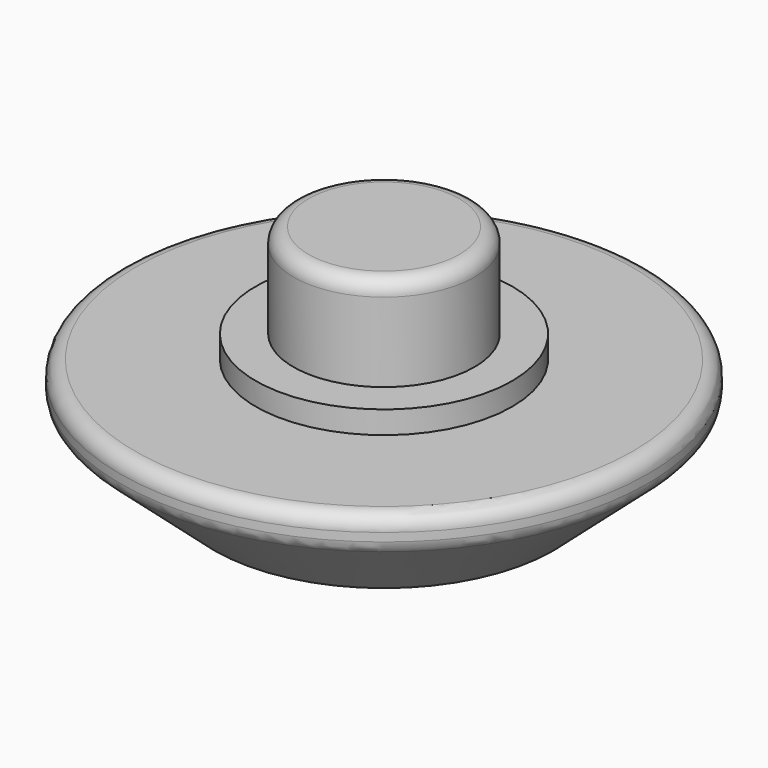
from build123d import *

# Parameters (mm, degrees)
F3_R = 0.4


with BuildPart() as f2:
    # F0 (on Front) → F2 (revolve)
    with BuildSketch(Plane.XZ):
        Polygon((0, 6.1), (0, 0), (4.5, 0), (7, 2.2), (7, 3), (3.4, 3), (3.4, 3.6), (2.4, 3.6), (2.4, 6.1), align=None)
    revolve(axis=Axis((0, 0, 11.599848), (0, 0, -1)))

    # F3
    f3_edges = [f2.edges().sort_by_distance(p)[0] for p in [
        (-7, 0, 2.2),
        (-2.4, 0, 6.1),
        (-7, 0, 3),
    ]]
    fillet(f3_edges, radius=F3_R)


solid = f2.part
